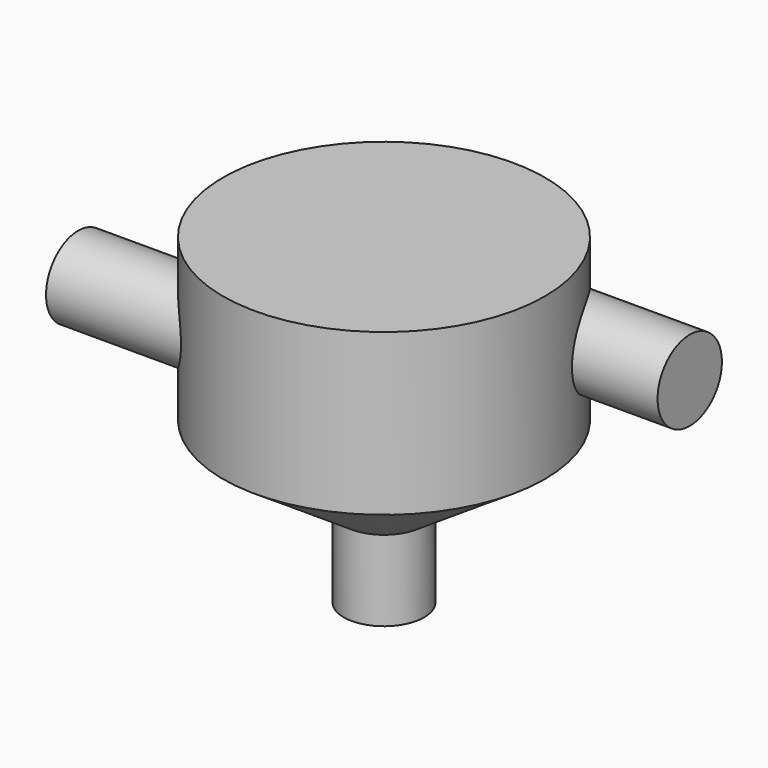
from build123d import *

# Parameters (mm, degrees)
F3_R = 500
F5_R = 500


with BuildPart() as f1:
    # F0 (on Front) → F1 (revolve)
    with BuildSketch(Plane.XZ):
        Polygon((0, 4000), (0, 0), (500, 0), (500, 1000), (2000, 2000), (2000, 4000), align=None)
    revolve(axis=Axis((0, 0, 2000), (0, 0, -1)))

    # F3 (on offset) → F6 (join, up to the next surface of F1)
    with BuildSketch(Plane.YZ.offset(3000)):
        with Locations((1000, 3000)):
            Circle(F3_R)
    extrude(until=Until.NEXT, dir=(-1, 0, 0))

    # F5 (on offset) → F7 (join, up to the next surface of F1)
    with BuildSketch(Plane.YZ.offset(-3000)):
        with Locations((-1000, 3000)):
            Circle(F5_R)
    extrude(until=Until.NEXT)


solid = f1.part
